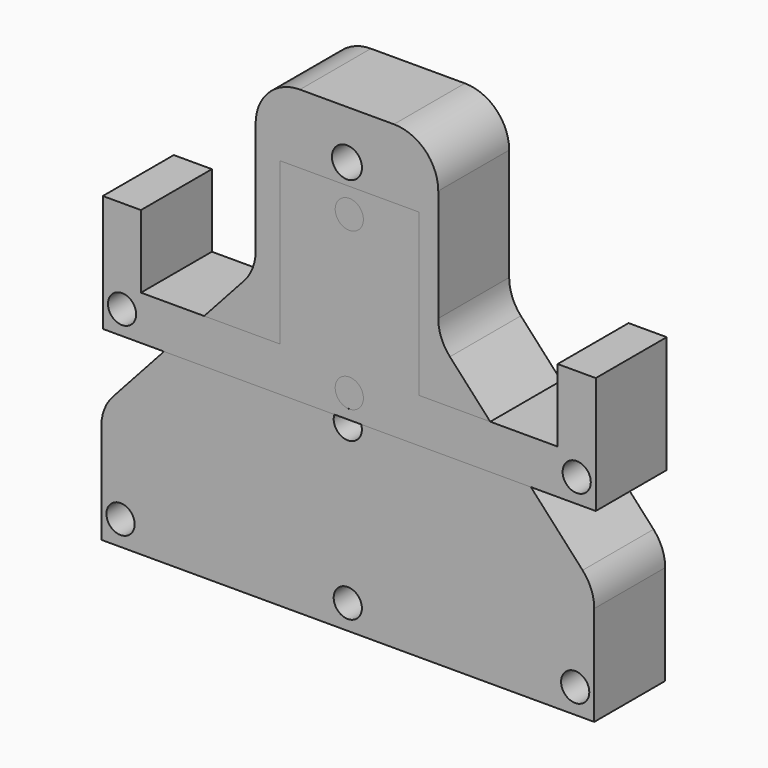
from build123d import *

# Parameters (mm, degrees)
F0_R     = 2.0193
F0_R_2   = 2.15265
F1_DEPTH = 12.7
F2_R     = 2.0193
F3_DEPTH = 6.35
F5_DEPTH = 6.35
F6_R     = 2.0193
F7_DEPTH = 12.7
F8_R     = 2.0193
F8_R_2   = 5.3467
F9_DEPTH = 6.35


with BuildPart() as f1:
    # F0 (on Front) → F1 (new body)
    with BuildSketch(Plane.XZ):
        with BuildLine():
            Line((-35.185121, -18.702235), (-35.185121, -33.016177))
            Line((-35.185121, -33.016177), (34.918879, -33.016177))
            Line((34.918879, -33.016177), (35.426879, -33.016177))
            Line((35.426879, -33.016177), (35.426879, -32.508177))
            Line((35.426879, -32.508177), (35.426879, -18.72201))
            ThreePointArc((35.426879, -18.72201), (34.994986, -16.420162), (33.758058, -14.431432))
            Line((33.758058, -14.431432), (14.749821, 6.307252))
            ThreePointArc((14.749821, 6.307252), (13.512893, 8.295982), (13.081, 10.597831))
            Line((13.081, 10.597831), (13.081, 26.669998))
            ThreePointArc((13.081, 26.669998), (11.221128, 31.160126), (6.731, 33.019998))
            Line((6.731, 33.019998), (-6.731, 33.019998))
            ThreePointArc((-6.731, 33.019998), (-11.221128, 31.160126), (-13.081, 26.669998))
            Line((-13.081, 26.669998), (-13.081, 10.578056))
            ThreePointArc((-13.081, 10.578056), (-13.506681, 8.292241), (-14.726654, 6.312892))
            Line((-14.726654, 6.312892), (-33.539467, -14.437071))
            ThreePointArc((-33.539467, -14.437071), (-34.75944, -16.41642), (-35.185121, -18.702235))
        make_face()
        with Locations((-32.43101, -29.500403)):
            Circle(F0_R, mode=Mode.SUBTRACT)
        with Locations((0.121423, -29.500403)):
            Circle(F0_R, mode=Mode.SUBTRACT)
        with Locations((32.696923, -29.500403)):
            Circle(F0_R, mode=Mode.SUBTRACT)
        with Locations((0.121423, -6.967465)):
            Circle(F0_R, mode=Mode.SUBTRACT)
        with Locations((0, 26.038823)):
            Circle(F0_R_2, mode=Mode.SUBTRACT)
    extrude(amount=F1_DEPTH)

    # F2 (on face) → F3 (cut)
    with BuildSketch(Plane(origin=(0, 0, 0), x_dir=(-1, 0, 0), z_dir=(0, 1, 0))):
        with Locations((0, 12.7)):
            Circle(F2_R)
        with Locations((-12.7, 0)):
            Circle(F2_R)
        with Locations((12.7, 0)):
            Circle(F2_R)
        with Locations((0, -12.7)):
            Circle(F2_R)
    extrude(amount=-F3_DEPTH, mode=Mode.SUBTRACT)


with BuildPart() as f5:
    # F4 (on face) → F5 (new body)
    with BuildSketch(Plane(origin=(0, 0, 0), x_dir=(-1, 0, 0), z_dir=(0, 1, 0))):
        with BuildLine():
            ThreePointArc((1.796051, 16.882882), (0, 17.62683), (-1.796051, 16.882882))
            Line((-1.796051, 16.882882), (-16.882882, 1.796051))
            ThreePointArc((-16.882882, 1.796051), (-17.62683, 0), (-16.882882, -1.796051))
            Line((-16.882882, -1.796051), (-1.796051, -16.882882))
            ThreePointArc((-1.796051, -16.882882), (0, -17.62683), (1.796051, -16.882882))
            Line((1.796051, -16.882882), (16.882882, -1.796051))
            ThreePointArc((16.882882, -1.796051), (17.62683, 0), (16.882882, 1.796051))
            Line((16.882882, 1.796051), (1.796051, 16.882882))
        make_face()
    extrude(amount=F5_DEPTH)


with BuildPart() as f7:
    # F6 (on Front) → F7 (new body)
    with BuildSketch(Plane.XZ):
        Polygon((-34.968648, -6.35), (35.643352, -6.35), (35.643352, 10.414), (30.182352, 10.414), (30.182352, 0), (10.294152, 0), (10.294152, 23.114), (-9.619448, 23.114), (-9.619448, 0), (-29.507648, 0), (-29.507648, 10.414), (-34.968648, 10.414), align=None)
        with Locations((-32.215081, -2.952176)):
            Circle(F6_R, mode=Mode.SUBTRACT)
        with Locations((0.337352, -2.952176)):
            Circle(F6_R, mode=Mode.SUBTRACT)
        with Locations((32.912852, -2.952176)):
            Circle(F6_R, mode=Mode.SUBTRACT)
        with Locations((0.337352, 19.580761)):
            Circle(F6_R, mode=Mode.SUBTRACT)
    extrude(amount=F7_DEPTH)


with BuildPart() as f9:
    # F8 (on Front) → F9 (new body)
    with BuildSketch(Plane.XZ):
        with BuildLine():
            ThreePointArc((1.835898, 17.629441), (0.039847, 18.37339), (-1.756204, 17.629441))
            Line((-1.756204, 17.629441), (-16.843035, 2.542611))
            ThreePointArc((-16.843035, 2.542611), (-17.586983, 0.746559), (-16.843035, -1.049492))
            Line((-16.843035, -1.049492), (-1.756204, -16.136322))
            ThreePointArc((-1.756204, -16.136322), (0.039847, -16.880271), (1.835898, -16.136322))
            Line((1.835898, -16.136322), (16.922728, -1.049492))
            ThreePointArc((16.922728, -1.049492), (17.666677, 0.746559), (16.922728, 2.542611))
            Line((16.922728, 2.542611), (1.835898, 17.629441))
        make_face()
        with Locations((0, -12.036494)):
            Circle(F8_R, mode=Mode.SUBTRACT)
        with Locations((-12.7, 0.663506)):
            Circle(F8_R, mode=Mode.SUBTRACT)
        with Locations((0, 0.663506)):
            Circle(F8_R_2, mode=Mode.SUBTRACT)
        with Locations((12.7, 0.663506)):
            Circle(F8_R, mode=Mode.SUBTRACT)
        with Locations((0, 13.363506)):
            Circle(F8_R, mode=Mode.SUBTRACT)
    extrude(amount=F9_DEPTH)


solid = Compound([f1.part, f7.part, f9.part])
